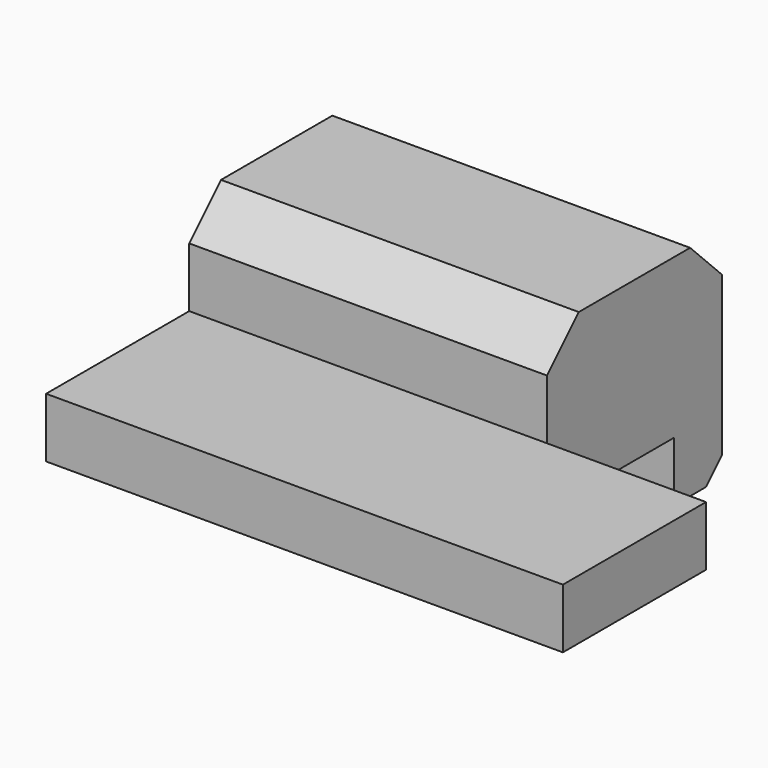
from build123d import *

# Parameters (mm, degrees)
BOX005_W        = 10
BOX005_H        = 10
BOX005_DEPTH    = 10
CYLINDER_R      = 2.5
CYLINDER_DEPTH  = 16
BOX004_W        = 16
BOX004_H        = 5
BOX004_DEPTH    = 2.5
BOX_W           = 18
BOX_H           = 3
BOX_DEPTH       = 11
BOX001_W        = 18
BOX001_H        = 11
BOX001_DEPTH    = 8
BOX002_W        = 18
BOX002_H        = 3
BOX002_DEPTH    = 8
BOX003_W        = 26
BOX003_H        = 17
BOX003_DEPTH    = 3
CHAMFER_SIZE    = 2
CHAMFER001_SIZE = 1


with BuildPart() as cube005:
    # Box005 → Box005 (new body)
    with BuildSketch(Plane(origin=(18, -11, 0), x_dir=(1, 0, 0), z_dir=(0, 0, 1))):
        with Locations((5, 5)):
            Rectangle(BOX005_W, BOX005_H)
    extrude(amount=BOX005_DEPTH)


with BuildPart() as cylinder:
    # Cylinder → Cylinder (new body)
    with BuildSketch(Plane(origin=(16, -5.5, 2.5), x_dir=(0, 0, 1), z_dir=(-1, 0, 0))):
        Circle(CYLINDER_R)
    extrude(amount=CYLINDER_DEPTH)


with BuildPart() as fusion:
    # Box004 → Box004 (new body)
    with BuildSketch(Plane(origin=(0, -8, 0), x_dir=(1, 0, 0), z_dir=(0, 0, 1))):
        with Locations((8, 2.5)):
            Rectangle(BOX004_W, BOX004_H)
    extrude(amount=BOX004_DEPTH)

    # Fusion: union Cylinder
    add(cylinder.part)


with BuildPart() as cube:
    # Box → Box (new body)
    with BuildSketch(Plane(origin=(0, -3, -3), x_dir=(1, 0, 0), z_dir=(0, 0, 1))):
        with Locations((9, 1.5)):
            Rectangle(BOX_W, BOX_H)
    extrude(amount=BOX_DEPTH)


with BuildPart() as cube001:
    # Box001 → Box001 (new body)
    with BuildSketch(Plane(origin=(0, -11, 0), x_dir=(1, 0, 0), z_dir=(0, 0, 1))):
        with Locations((9, 5.5)):
            Rectangle(BOX001_W, BOX001_H)
    extrude(amount=BOX001_DEPTH)


with BuildPart() as cube002:
    # Box002 → Box002 (new body)
    with BuildSketch(Plane(origin=(0, -11, 0), x_dir=(1, 0, 0), z_dir=(0, 0, 1))):
        with Locations((9, 1.5)):
            Rectangle(BOX002_W, BOX002_H)
    extrude(amount=BOX002_DEPTH)


with BuildPart() as cut001:
    # Box003 → Box003 (new body)
    with BuildSketch(Plane(origin=(0, -20, 0), x_dir=(1, 0, 0), z_dir=(0, 0, 1))):
        with Locations((13, 8.5)):
            Rectangle(BOX003_W, BOX003_H)
    extrude(amount=BOX003_DEPTH)

    # Fusion001: union Cube, Cube001, Cube002
    add(cube.part)
    add(cube001.part)
    add(cube002.part)

    # Cut: cut Fusion
    add(fusion.part, mode=Mode.SUBTRACT)

    # Chamfer
    chamfer_edges = [cut001.edges().sort_by_distance(p)[0] for p in [
        (9, -11, 8),
        (9, 0, 8),
    ]]
    chamfer(chamfer_edges, length=CHAMFER_SIZE)

    # Chamfer001
    chamfer001_edges = [cut001.edges().sort_by_distance(p)[0] for p in [
        (9, 0, -3),
    ]]
    chamfer(chamfer001_edges, length=CHAMFER001_SIZE)

    # Cut001: cut Cube005
    add(cube005.part, mode=Mode.SUBTRACT)


solid = cut001.part
